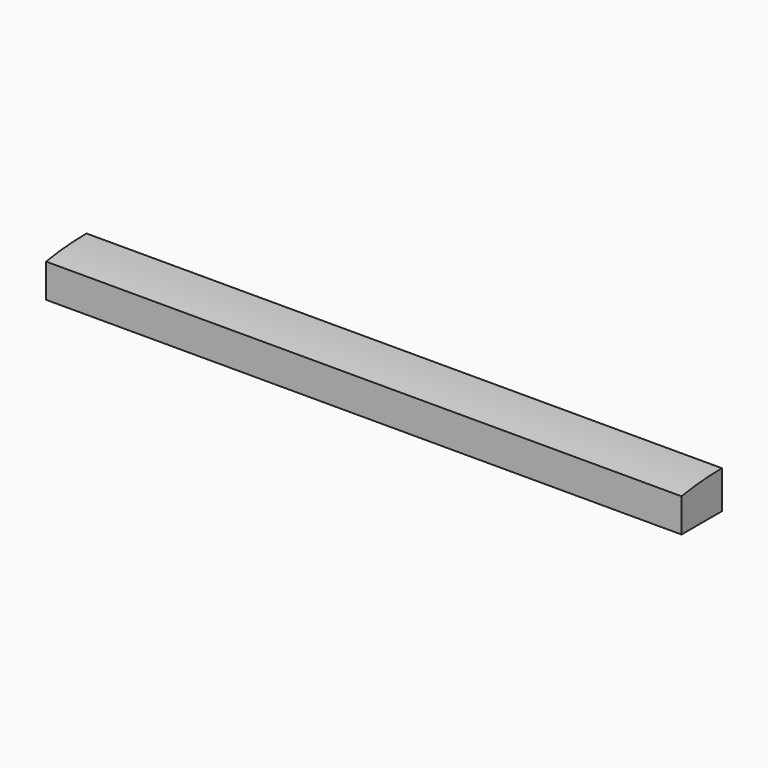
from build123d import *

# Parameters (mm, degrees)
PAD_DEPTH = 75.5


with BuildPart() as part:
    # Sketch → Pad (new body)
    with BuildSketch(Plane.YZ):
        with BuildLine():
            Line((-3, -2.25), (3, -2.25))
            Line((3, -2.25), (3, 2.25))
            ThreePointArc((3, 2.25), (-0.010399, 2.124784), (-3, 1.75))
            Line((-3, 1.75), (-3, -2.25))
        make_face()
    extrude(amount=PAD_DEPTH)


solid = part.part
